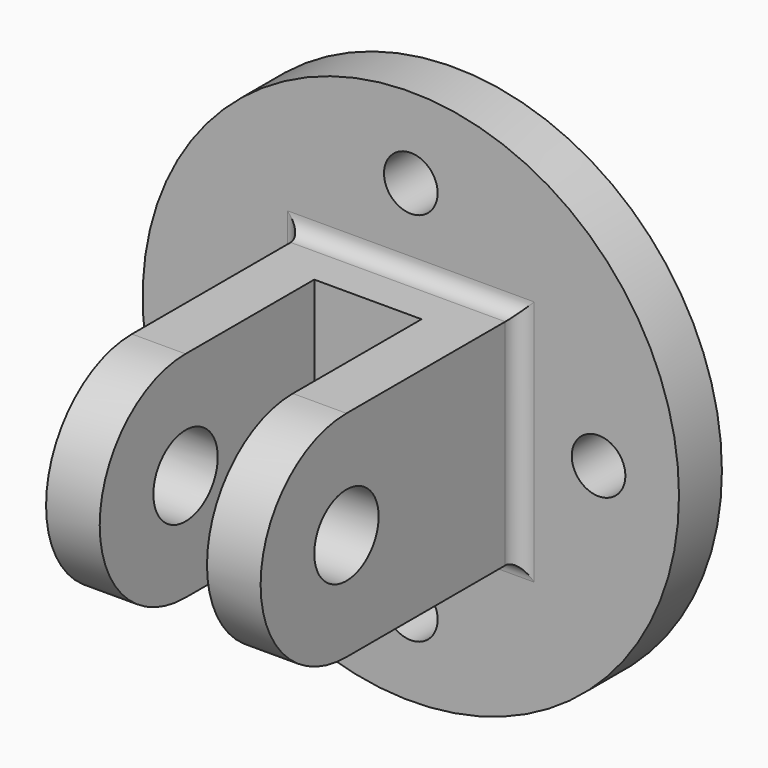
from build123d import *

# Parameters (mm, degrees)
F0_R     = 63.5
F0_R_2   = 6.35
F1_DEPTH = 12.7
F0_W     = 12.7
F0_H     = 50.8
F2_DEPTH = 127
F0_W_2   = 25.4
F3_DEPTH = 25.4
F4_R     = 9.525
F5_DEPTH = 254
F6_R     = 3.81


with BuildPart() as f1:
    # F0 (on Front) → F1 (new body)
    with BuildSketch(Plane.XZ):
        Circle(F0_R)
        with Locations((0, -44.45)):
            Circle(F0_R_2, mode=Mode.SUBTRACT)
        with Locations((-44.45, 0)):
            Circle(F0_R_2, mode=Mode.SUBTRACT)
        Polygon((-25.4, -25.4), (-25.4, 25.4), (-12.7, 25.4), (12.7, 25.4), (25.4, 25.4), (25.4, -25.4), (12.7, -25.4), (-12.7, -25.4), align=None, mode=Mode.SUBTRACT)
        with Locations((44.45, 0)):
            Circle(F0_R_2, mode=Mode.SUBTRACT)
        with Locations((0, 44.45)):
            Circle(F0_R_2, mode=Mode.SUBTRACT)
    extrude(amount=F1_DEPTH)

    # F0 (on Front) → F2 (join)
    with BuildSketch(Plane.XZ):
        with Locations((-19.05, 0)):
            Rectangle(F0_W, F0_H)
        with Locations((19.05, 0)):
            Rectangle(F0_W, F0_H)
    extrude(amount=F2_DEPTH)

    # F0 (on Front) → F3 (join)
    with BuildSketch(Plane.XZ):
        Rectangle(F0_W_2, F0_H)
    extrude(amount=F3_DEPTH)

    # F4 (on face) → F5 (cut)
    with BuildSketch(Plane.YZ.offset(25.4)):
        with BuildLine():
            Line((-127, -25.4), (-63.5, -25.4))
            ThreePointArc((-63.5, -25.4), (-88.9, 0), (-63.5, 25.4))
            Line((-63.5, 25.4), (-127, 25.4))
            Line((-127, 25.4), (-127, -25.4))
        make_face()
        with Locations((-63.5, 0)):
            Circle(F4_R)
    extrude(amount=-F5_DEPTH, mode=Mode.SUBTRACT)

    # F6
    f6_edges = [f1.edges().sort_by_distance(p)[0] for p in [
        (0, -12.7, 25.4),
        (25.4, -12.7, 0),
        (0, -12.7, -25.4),
        (-25.4, -12.7, 0),
    ]]
    fillet(f6_edges, radius=F6_R)


solid = f1.part
